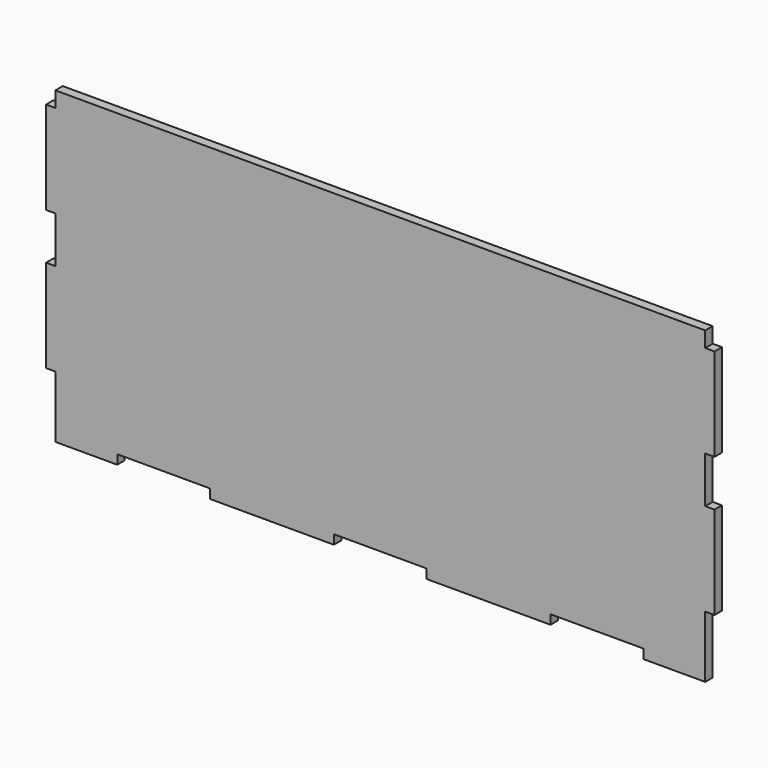
from build123d import *

# Parameters (mm, degrees)
F0_W     = 3
F0_H     = 30
F1_DEPTH = 3


with BuildPart() as f1:
    # F0 (on Front) → F1 (new body)
    with BuildSketch(Plane.XZ):
        Polygon((105, 45), (105, 50), (-105, 50), (-105, 45), (-105, 15), (-105, 0), (-105, -30), (-105, -50), (-85, -50), (-85, -47), (-55, -47), (-55, -50), (-15, -50), (-15, -47), (15, -47), (15, -50), (55, -50), (55, -47), (85, -47), (85, -50), (105, -50), (105, -30), (105, 0), (105, 15), align=None)
        with Locations((-106.5, -15)):
            Rectangle(F0_W, F0_H)
        with Locations((106.5, -15)):
            Rectangle(F0_W, F0_H)
        with Locations((106.5, 30)):
            Rectangle(F0_W, F0_H)
        with Locations((-106.5, 30)):
            Rectangle(F0_W, F0_H)
    extrude(amount=F1_DEPTH)


solid = f1.part
